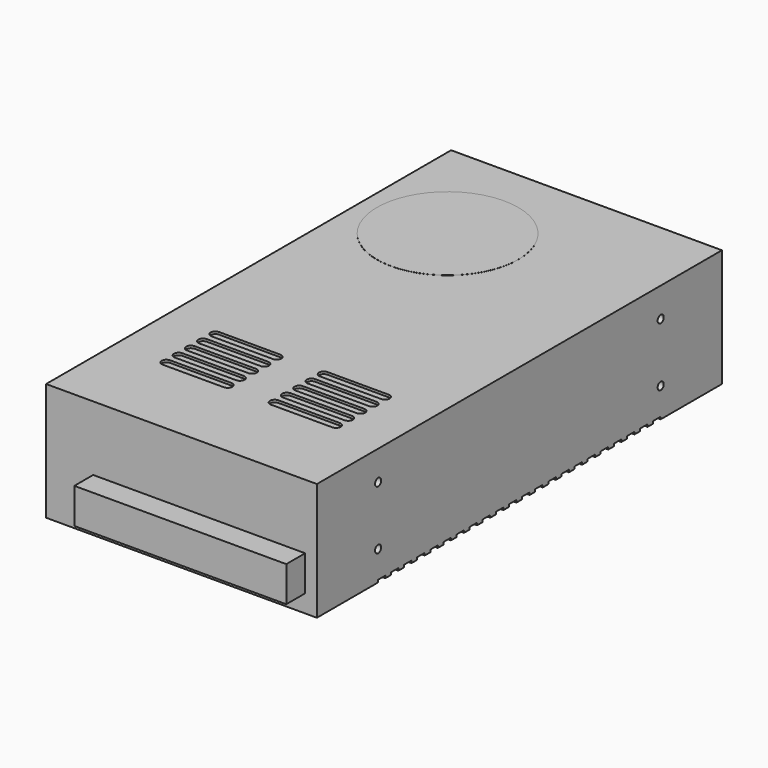
from build123d import *

# Parameters (mm, degrees)
ARRAY002_Z_COUNT = 2
ARRAY002_Z_PITCH = 25
PAD003_DEPTH     = 1
ARRAY001_Y_COUNT = 22
ARRAY001_Y_PITCH = 6.96
PAD002_DEPTH     = 1
ARRAY_Y_COUNT    = 5
ARRAY_Y_PITCH    = 6.5
SKETCH_W         = 115
SKETCH_H         = 215
PAD_DEPTH        = 50
SKETCH001_R      = 30
PAD001_DEPTH     = 0.05
BOX_W            = 90
BOX_H            = 10
BOX_DEPTH        = 15


with BuildPart() as array002:
    # Sketch006 → Revolution002 (revolve)
    with BuildSketch(Plane(origin=(-57.5, 75, 12.5), x_dir=(1, 0, 0), z_dir=(0, -1, 0))):
        Polygon((0, 1.62), (8, 1.62), (8.973499, 0), (0, 0), align=None)
    revolve(axis=Axis((-57.5, 75, 12.5), (1, 0, 0)))

    # Array002 Z: Array002 ×2


with BuildPart() as array002_1:
    add(array002.part)
    with Locations(*[(0, 0, i * ARRAY002_Z_PITCH) for i in range(1, ARRAY002_Z_COUNT)]):
        add(array002.part)


with BuildPart() as part_mirroring004:
    # Part__Mirroring004: instance of Array002
    add(array002_1.part.mirror(Plane(origin=(0, 0, 0), x_dir=(1, 0, 0), z_dir=(0, 1, 0))))


with BuildPart() as fusion005:
    # Fusion005 base: copy of Array002
    add(array002_1.part)

    # Fusion005: union Part__Mirroring004
    add(part_mirroring004.part)


with BuildPart() as fusion006:
    # Part__Mirroring005: instance of Fusion005
    add(fusion005.part.mirror(Plane(origin=(0, 0, 0), x_dir=(0, -1, 0), z_dir=(1, 0, 0))))

    # Fusion006: union Fusion005
    add(fusion005.part)


with BuildPart() as revolution001:
    # Sketch005 → Revolution001 (revolve)
    with BuildSketch(Plane(origin=(25, 75, 0), x_dir=(0, 1, 0), z_dir=(1, 0, 0))):
        Polygon((0, 0), (1.62, 0), (1.62, 8), (0, 8.973499), align=None)
    revolve(axis=Axis((25, 75, 0), (0, 0, 1)))


with BuildPart() as fusion003:
    # Part__Mirroring002: instance of Revolution001
    add(revolution001.part.mirror(Plane(origin=(0, 0, 0), x_dir=(0, -1, 0), z_dir=(1, 0, 0))))

    # Fusion003: union Revolution001
    add(revolution001.part)


with BuildPart() as part_mirroring003:
    # Part__Mirroring003: instance of Fusion003
    add(fusion003.part.mirror(Plane(origin=(0, 0, 0), x_dir=(1, 0, 0), z_dir=(0, 1, 0))))


with BuildPart() as fusion004:
    # Fusion004 base: copy of Fusion003
    add(fusion003.part)

    # Fusion004: union Part__Mirroring003
    add(part_mirroring003.part)


with BuildPart() as revolution:
    # Sketch004 → Revolution (revolve)
    with BuildSketch(Plane(origin=(47.5, 97.5, 0), x_dir=(1, 0, 0), z_dir=(0, -1, 0))):
        Polygon((1.225, 0), (1.225, 8), (0, 8.67), (0, 0), align=None)
    revolve(axis=Axis((47.5, 97.5, 0), (0, 0, 1)))


with BuildPart() as part_mirroring:
    # Part__Mirroring: instance of Revolution
    add(revolution.part.mirror(Plane(origin=(0, 0, 0), x_dir=(1, 0, 0), z_dir=(0, 1, 0))))


with BuildPart() as fusion001:
    # Fusion001 base: copy of Revolution
    add(revolution.part)

    # Fusion001: union Part__Mirroring
    add(part_mirroring.part)


with BuildPart() as fusion002:
    # Part__Mirroring001: instance of Fusion001
    add(fusion001.part.mirror(Plane(origin=(0, 0, 0), x_dir=(0, -1, 0), z_dir=(1, 0, 0))))

    # Fusion002: union Fusion001
    add(fusion001.part)


with BuildPart() as array001:
    # Sketch003 → Pad003 (new body)
    with BuildSketch(Plane.XY):
        with BuildLine():
            Line((-20, 75), (20, 75))
            ThreePointArc((20, 71), (22, 73), (20, 75))
            Line((-20, 71), (20, 71))
            ThreePointArc((-20, 75), (-22.000016, 73), (-20, 71))
        make_face()
        with BuildLine():
            Line((-70.000031, 75), (-30.000031, 75))
            ThreePointArc((-30.000031, 71), (-28.000016, 73), (-30.000031, 75))
            Line((-70.000031, 71), (-30.000031, 71))
            Line((-70.000031, 75), (-70.000031, 71))
        make_face()
        with BuildLine():
            Line((30, 75), (70, 75))
            Line((70, 75), (70, 71))
            Line((30.000001, 71), (70, 71))
            ThreePointArc((30, 75), (28, 73), (30.000001, 71))
        make_face()
    extrude(amount=PAD003_DEPTH)

    # Array001 Y: Array001 ×22


with BuildPart() as array001_1:
    add(array001.part)
    with Locations(*[(0, -i * ARRAY001_Y_PITCH, 0) for i in range(1, ARRAY001_Y_COUNT)]):
        add(array001.part)


with BuildPart() as array:
    # Sketch002 → Pad002 (new body)
    with BuildSketch(Plane.XY.offset(50)):
        with BuildLine():
            Line((10, -42.5), (36, -42.5))
            ThreePointArc((36, -46.5), (38, -44.5), (36, -42.5))
            Line((36, -46.5), (10, -46.5))
            ThreePointArc((10, -42.5), (8, -44.5), (10, -46.5))
        make_face()
        with BuildLine():
            Line((-36.000014, -42.5), (-10.000014, -42.5))
            ThreePointArc((-10.000013, -46.5), (-8, -44.5), (-10.000014, -42.5))
            Line((-10.000013, -46.5), (-36.000014, -46.5))
            ThreePointArc((-36.000014, -42.5), (-38.000014, -44.5), (-36.000014, -46.5))
        make_face()
    extrude(amount=-PAD002_DEPTH)

    # Array Y: Array ×5


with BuildPart() as array_1:
    add(array.part)
    with Locations(*[(0, -i * ARRAY_Y_PITCH, 0) for i in range(1, ARRAY_Y_COUNT)]):
        add(array.part)


with BuildPart() as cut001:
    # Sketch → Pad (new body)
    with BuildSketch(Plane.XY):
        Rectangle(SKETCH_W, SKETCH_H)
    extrude(amount=PAD_DEPTH)

    # Sketch001 → Pad001 (new body, symmetric)
    with BuildSketch(Plane.XY.offset(50)):
        with Locations((-21, 60)):
            Circle(SKETCH001_R)
    extrude(amount=PAD001_DEPTH, both=True)

    # Cut: cut Array
    add(array_1.part, mode=Mode.SUBTRACT)

    # Cut001: cut Array001
    add(array001_1.part, mode=Mode.SUBTRACT)


with BuildPart() as cut004:
    # Box → Box (new body)
    with BuildSketch(Plane(origin=(-37.5, -117.5, 7.5), x_dir=(1, 0, 0), z_dir=(0, 0, 1))):
        with Locations((45, 5)):
            Rectangle(BOX_W, BOX_H)
    extrude(amount=BOX_DEPTH)

    # Fusion: union Cut001
    add(cut001.part)

    # Cut002: cut Fusion002
    add(fusion002.part, mode=Mode.SUBTRACT)

    # Cut003: cut Fusion004
    add(fusion004.part, mode=Mode.SUBTRACT)

    # Cut004: cut Fusion006
    add(fusion006.part, mode=Mode.SUBTRACT)


solid = cut004.part
